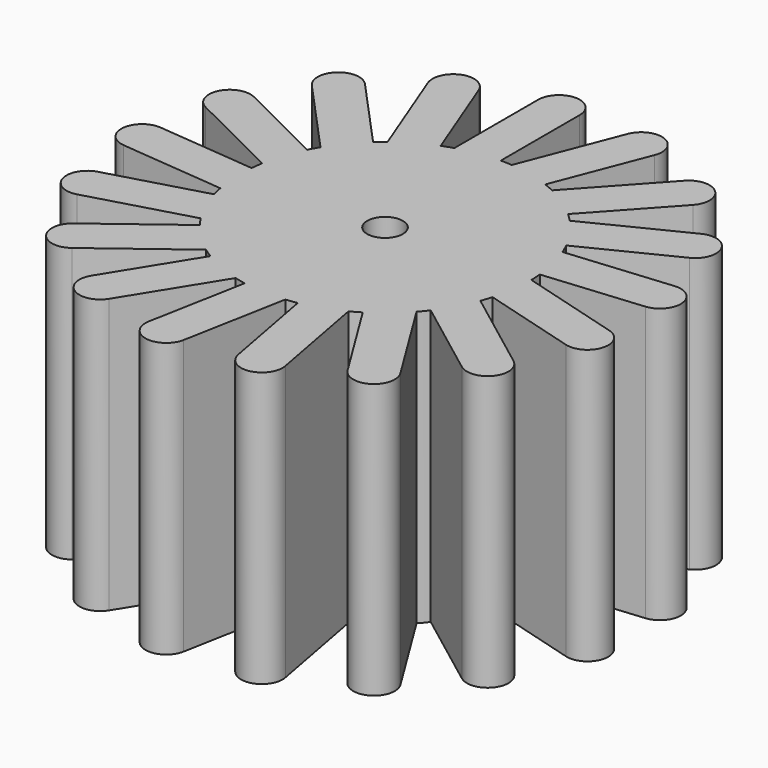
from build123d import *

# Parameters (mm, degrees)
F1_DEPTH = 25.4
F2_R     = 1.651
F3_DEPTH = 25.4


with BuildPart() as f1:
    # F0 (on Top) → F1 (new body)
    with BuildSketch(Plane.XY):
        with BuildLine():
            ThreePointArc((12.886483, -3.666521), (13.269461, -1.851011), (13.397941, 0))
            ThreePointArc((13.397941, 0), (13.39761, 0.094267), (13.396615, 0.18853))
            ThreePointArc((13.396615, 0.18853), (13.37896, 0.712915), (13.340788, 1.236206))
            ThreePointArc((13.340788, 1.236206), (13.02016, 3.159153), (12.423866, 5.015214))
            ThreePointArc((12.423866, 5.015214), (12.217975, 5.497811), (11.993345, 5.971976))
            ThreePointArc((11.993345, 5.971976), (10.99972, 7.649247), (9.773206, 9.164566))
            ThreePointArc((9.773206, 9.164566), (9.406884, 9.540198), (9.026135, 9.901198))
            ThreePointArc((9.026135, 9.901198), (7.493707, 11.106268), (5.80262, 12.076193))
            ThreePointArc((5.80262, 12.076193), (5.325341, 12.294128), (4.839895, 12.493208))
            ThreePointArc((4.839895, 12.493208), (2.975627, 13.063326), (1.048358, 13.356862))
            ThreePointArc((1.048358, 13.356862), (0.524581, 13.387668), (0, 13.397941))
            ThreePointArc((0, 13.397941), (-1.944328, 13.256109), (-3.84749, 12.833614))
            ThreePointArc((-3.84749, 12.833614), (-4.347026, 12.673129), (-4.839895, 12.493208))
            ThreePointArc((-4.839895, 12.493208), (-6.601691, 11.658581), (-8.223714, 10.577115))
            ThreePointArc((-8.223714, 10.577115), (-8.631543, 10.247014), (-9.026135, 9.901198))
            ThreePointArc((-9.026135, 9.901198), (-10.367458, 8.486497), (-11.489279, 6.892118))
            ThreePointArc((-11.489279, 6.892118), (-11.750323, 6.436983), (-11.993345, 5.971976))
            ThreePointArc((-11.993345, 5.971976), (-12.733043, 4.168265), (-13.203154, 2.276302))
            ThreePointArc((-13.203154, 2.276302), (-13.282156, 1.757602), (-13.340788, 1.236206))
            ThreePointArc((-13.340788, 1.236206), (-13.37896, -0.712915), (-13.13387, -2.646941))
            ThreePointArc((-13.13387, -2.646941), (-13.02016, -3.159153), (-12.886483, -3.666521))
            ThreePointArc((-12.886483, -3.666521), (-12.217975, -5.497811), (-11.290783, -7.2127))
            ThreePointArc((-11.290783, -7.2127), (-10.99972, -7.649247), (-10.691788, -8.074063))
            ThreePointArc((-10.691788, -8.074063), (-9.406884, -9.540198), (-7.922814, -10.804344))
            ThreePointArc((-7.922814, -10.804344), (-7.493707, -11.106268), (-7.053107, -11.391159))
            ThreePointArc((-7.053107, -11.391159), (-5.325341, -12.294128), (-3.484825, -12.936801))
            ThreePointArc((-3.484825, -12.936801), (-2.975627, -13.063326), (-2.461865, -13.169816))
            ThreePointArc((-2.461865, -13.169816), (-0.524581, -13.387668), (1.423809, -13.322072))
            ThreePointArc((1.423809, -13.322072), (1.944328, -13.256109), (2.461865, -13.169816))
            ThreePointArc((2.461865, -13.169816), (4.347026, -12.673129), (6.14015, -11.908123))
            ThreePointArc((6.14015, -11.908123), (6.601691, -11.658581), (7.053107, -11.391159))
            ThreePointArc((7.053107, -11.391159), (8.631543, -10.247014), (10.027229, -8.885916))
            ThreePointArc((10.027229, -8.885916), (10.367458, -8.486497), (10.691788, -8.074063))
            ThreePointArc((10.691788, -8.074063), (11.750323, -6.436983), (12.560076, -4.663617))
            ThreePointArc((12.560076, -4.663617), (12.733043, -4.168265), (12.886483, -3.666521))
        make_face()
        with BuildLine():
            Line((15.135725, -17.13642), (10.027229, -8.885916))
            ThreePointArc((10.027229, -8.885916), (8.631543, -10.247014), (7.053107, -11.391159))
            Line((7.053107, -11.391159), (11.864523, -19.161862))
            ThreePointArc((11.864523, -19.161862), (14.512845, -19.784742), (15.135725, -17.13642))
        make_face()
        with BuildLine():
            Line((20.304032, -10.511581), (12.560076, -4.663617))
            ThreePointArc((12.560076, -4.663617), (11.750323, -6.436983), (10.691788, -8.074063))
            Line((10.691788, -8.074063), (17.985401, -13.581944))
            ThreePointArc((17.985401, -13.581944), (20.679898, -13.206078), (20.304032, -10.511581))
        make_face()
        with BuildLine():
            ThreePointArc((13.396615, 0.18853), (13.39761, 0.094267), (13.397941, 0))
            ThreePointArc((13.397941, 0), (13.269461, -1.851011), (12.886483, -3.666521))
            Line((12.886483, -3.666521), (21.677251, -6.16771))
            ThreePointArc((21.677251, -6.16771), (24.054016, -4.84386), (22.730167, -2.467095))
            Line((22.730167, -2.467095), (13.396615, 0.18853))
        make_face()
        with BuildLine():
            ThreePointArc((12.423866, 5.015214), (13.02016, 3.159153), (13.340788, 1.236206))
            Line((13.340788, 1.236206), (22.441468, 2.079508))
            ThreePointArc((22.441468, 2.079508), (24.179506, 4.172548), (22.086467, 5.910586))
            Line((22.086467, 5.910586), (12.423866, 5.015214))
        make_face()
        with BuildLine():
            ThreePointArc((9.773206, 9.164566), (10.99972, 7.649247), (11.993345, 5.971976))
            Line((11.993345, 5.971976), (20.174841, 10.045877))
            ThreePointArc((20.174841, 10.045877), (21.03942, 12.62543), (18.459867, 13.490009))
            Line((18.459867, 13.490009), (9.773206, 9.164566))
        make_face()
        with BuildLine():
            ThreePointArc((5.80262, 12.076193), (7.493707, 11.106268), (9.026135, 9.901198))
            Line((9.026135, 9.901198), (15.18349, 16.655495))
            ThreePointArc((15.18349, 16.655495), (15.057844, 19.373178), (12.34016, 19.247532))
            Line((12.34016, 19.247532), (5.80262, 12.076193))
        make_face()
        with BuildLine():
            ThreePointArc((1.048358, 13.356862), (2.975627, 13.063326), (4.839895, 12.493208))
            Line((4.839895, 12.493208), (8.141524, 21.015695))
            ThreePointArc((8.141524, 21.015695), (7.042622, 23.504471), (4.553846, 22.405569))
            Line((4.553846, 22.405569), (1.048358, 13.356862))
        make_face()
        with BuildLine():
            ThreePointArc((-3.84749, 12.833614), (-1.944328, 13.256109), (0, 13.397941))
            Line((0, 13.397941), (0, 22.53761))
            ThreePointArc((0, 22.53761), (-1.923745, 24.461355), (-3.84749, 22.53761))
            Line((-3.84749, 22.53761), (-3.84749, 12.833614))
        make_face()
        with BuildLine():
            ThreePointArc((-8.223714, 10.577115), (-6.601691, 11.658581), (-4.839895, 12.493208))
            Line((-4.839895, 12.493208), (-8.141524, 21.015695))
            ThreePointArc((-8.141524, 21.015695), (-10.6303, 22.114597), (-11.729202, 19.625822))
            Line((-11.729202, 19.625822), (-8.223714, 10.577115))
        make_face()
        with BuildLine():
            ThreePointArc((-11.489279, 6.892118), (-10.367458, 8.486497), (-9.026135, 9.901198))
            Line((-9.026135, 9.901198), (-15.18349, 16.655495))
            ThreePointArc((-15.18349, 16.655495), (-17.901173, 16.781141), (-18.026819, 14.063457))
            Line((-18.026819, 14.063457), (-11.489279, 6.892118))
        make_face()
        with BuildLine():
            ThreePointArc((-13.203154, 2.276302), (-12.733043, 4.168265), (-11.993345, 5.971976))
            Line((-11.993345, 5.971976), (-20.174841, 10.045877))
            ThreePointArc((-20.174841, 10.045877), (-22.754394, 9.181298), (-21.889815, 6.601745))
            Line((-21.889815, 6.601745), (-13.203154, 2.276302))
        make_face()
        with BuildLine():
            Line((-22.79647, -1.751569), (-13.13387, -2.646941))
            ThreePointArc((-13.13387, -2.646941), (-13.37896, -0.712915), (-13.340788, 1.236206))
            Line((-13.340788, 1.236206), (-22.441468, 2.079508))
            ThreePointArc((-22.441468, 2.079508), (-24.534508, 0.34147), (-22.79647, -1.751569))
        make_face()
        with BuildLine():
            Line((-20.624335, -9.868325), (-11.290783, -7.2127))
            ThreePointArc((-11.290783, -7.2127), (-12.217975, -5.497811), (-12.886483, -3.666521))
            Line((-12.886483, -3.666521), (-21.677251, -6.16771))
            ThreePointArc((-21.677251, -6.16771), (-23.001101, -8.544475), (-20.624335, -9.868325))
        make_face()
        with BuildLine():
            Line((-15.66677, -16.652308), (-7.922814, -10.804344))
            ThreePointArc((-7.922814, -10.804344), (-9.406884, -9.540198), (-10.691788, -8.074063))
            Line((-10.691788, -8.074063), (-17.985401, -13.581944))
            ThreePointArc((-17.985401, -13.581944), (-18.361267, -16.276442), (-15.66677, -16.652308))
        make_face()
        with BuildLine():
            Line((-8.593321, -21.187305), (-3.484825, -12.936801))
            ThreePointArc((-3.484825, -12.936801), (-5.325341, -12.294128), (-7.053107, -11.391159))
            Line((-7.053107, -11.391159), (-11.864523, -19.161862))
            ThreePointArc((-11.864523, -19.161862), (-11.241643, -21.810185), (-8.593321, -21.187305))
        make_face()
        with BuildLine():
            Line((-0.359295, -22.860839), (1.423809, -13.322072))
            ThreePointArc((1.423809, -13.322072), (-0.524581, -13.387668), (-2.461865, -13.169816))
            Line((-2.461865, -13.169816), (-4.141275, -22.153864))
            ThreePointArc((-4.141275, -22.153864), (-2.603772, -24.398341), (-0.359295, -22.860839))
        make_face()
        with BuildLine():
            Line((7.923254, -21.44689), (6.14015, -11.908123))
            ThreePointArc((6.14015, -11.908123), (4.347026, -12.673129), (2.461865, -13.169816))
            Line((2.461865, -13.169816), (4.141275, -22.153864))
            ThreePointArc((4.141275, -22.153864), (6.385752, -23.691367), (7.923254, -21.44689))
        make_face()
    extrude(amount=F1_DEPTH)

    # F2 (on face) → F3 (cut)
    with BuildSketch(Plane.XY.offset(25.4)):
        Circle(F2_R)
    extrude(amount=-F3_DEPTH, mode=Mode.SUBTRACT)


solid = f1.part
